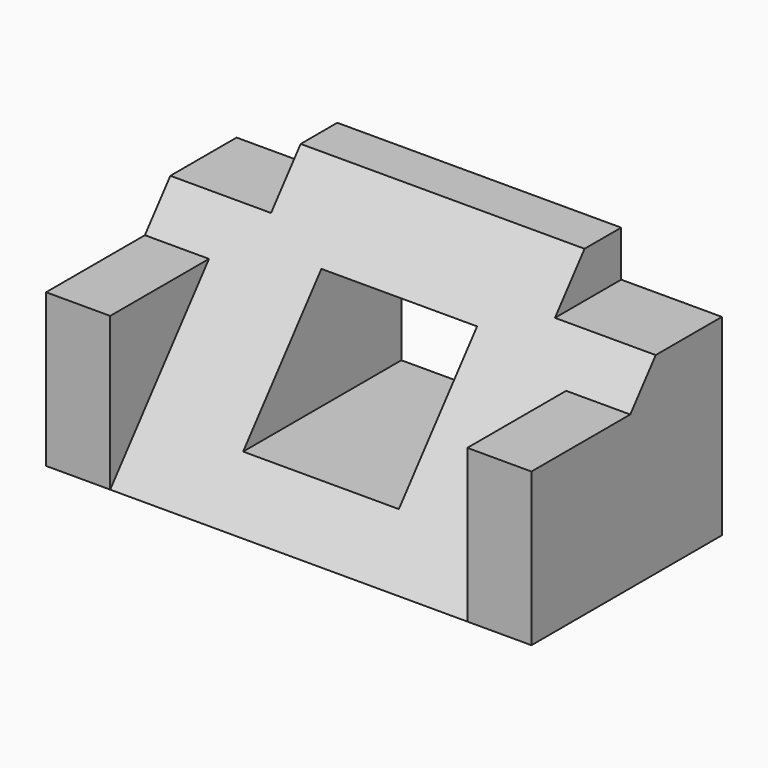
from build123d import *

# Parameters (mm, degrees)
F0_W     = 53
F0_H     = 26
F1_DEPTH = 26
F3_DEPTH = 202.1
F4_W     = 7
F4_H     = 16.7
F5_DEPTH = 26
F6_W     = 11
F6_H     = 5
F7_DEPTH = 25
F9_W     = 17
F9_H     = 13.2250000635
F8_W     = 17
F8_H     = 17


with BuildPart() as f1:
    # F0 (on Front) → F1 (new body)
    with BuildSketch(Plane.XZ):
        Rectangle(F0_W, F0_H)
    extrude(amount=F1_DEPTH)

    # F2 (on face) → F3 (cut)
    with BuildSketch(Plane.YZ.offset(26.5)):
        Polygon((-26, -13), (-5, 13), (-26, 13), align=None)
    extrude(amount=-F3_DEPTH, mode=Mode.SUBTRACT)

    # F4 (on face) → F5 (join)
    with BuildSketch(Plane(origin=(0, 0, 0), x_dir=(-1, 0, 0), z_dir=(0, 1, 0))):
        with Locations((-23, -4.65)):
            Rectangle(F4_W, F4_H)
        with Locations((23, -4.65)):
            Rectangle(F4_W, F4_H)
    extrude(amount=-F5_DEPTH)

    # F6 (on face) → F7 (cut)
    with BuildSketch(Plane(origin=(0, 0, 0), x_dir=(-1, 0, 0), z_dir=(0, 1, 0))):
        with Locations((-21, 10.5)):
            Rectangle(F6_W, F6_H)
        with Locations((21, 10.5)):
            Rectangle(F6_W, F6_H)
    extrude(amount=-F7_DEPTH, mode=Mode.SUBTRACT)

    # F9 (on face) → F10 section 0
    with BuildSketch(Plane(origin=(0, 0, 0), x_dir=(-1, 0, 0), z_dir=(0, 1, 0))):
        with Locations((0, -0.9419117068)):
            Rectangle(F9_W, F9_H)
    # F8 (on face) → F10 section 1
    with BuildSketch(Plane(origin=(0, -9.3804834378, 7.5765443151), x_dir=(1, 0, 0), z_dir=(0, -0.7779411802, 0.6283371071))):
        with Locations((0, -10.9500001269)):
            Rectangle(F8_W, F8_H)
    loft(mode=Mode.SUBTRACT)


solid = f1.part
